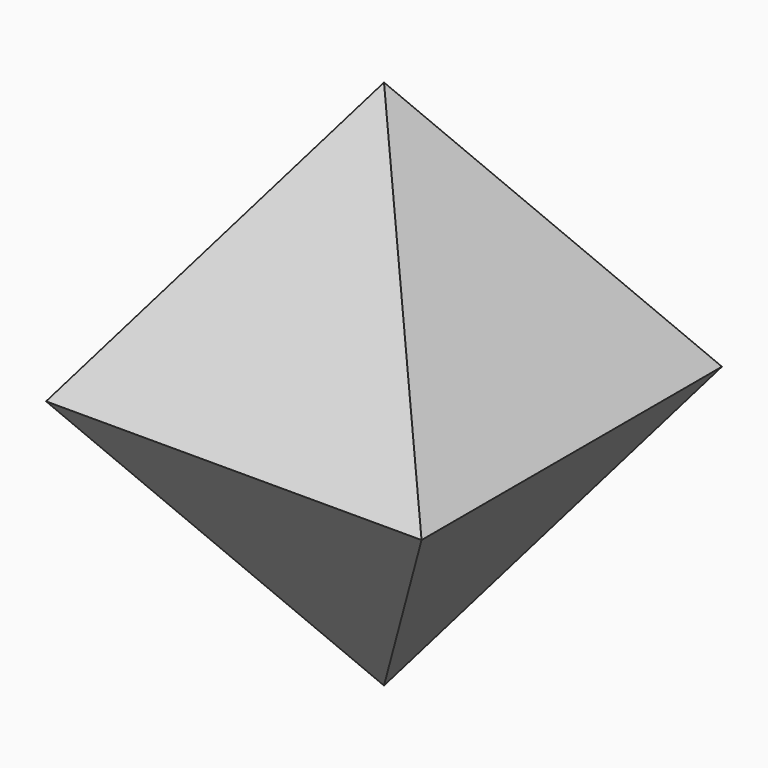
from build123d import *

# Parameters (mm, degrees)
F0_W = 40
F0_H = 40


with BuildPart() as f2:
    # F0 (on Top) → F2 section 0
    with BuildSketch(Plane.XY, mode=Mode.PRIVATE) as f2_s0:
        Rectangle(F0_W, F0_H)
    loft([f2_s0.sketch, Vertex(0, 0, 28.284271)])

    # F3: F2 across plane


with BuildPart() as f2_1:
    add(f2.part)
    add(f2.part.mirror(Plane.XY))


solid = f2_1.part
